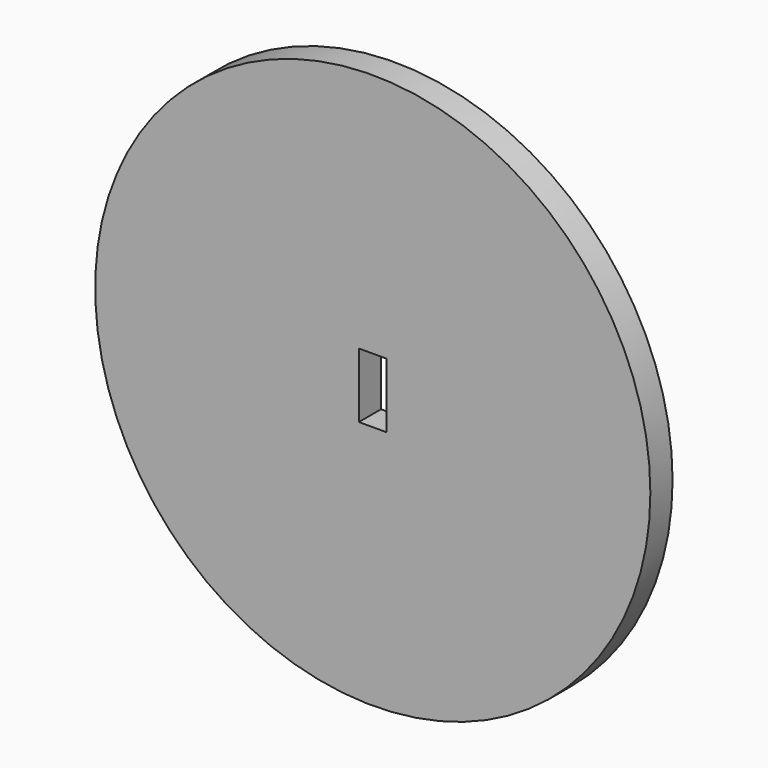
from build123d import *

# Parameters (mm, degrees)
F0_R     = 381
F0_W     = 38.1
F0_H     = 88.9
F1_DEPTH = 19.05


with BuildPart() as f1:
    # F0 (on Front) → F1 (new body, symmetric)
    with BuildSketch(Plane.XZ):
        Circle(F0_R)
        Rectangle(F0_W, F0_H, mode=Mode.SUBTRACT)
    extrude(amount=F1_DEPTH, both=True)


solid = f1.part
